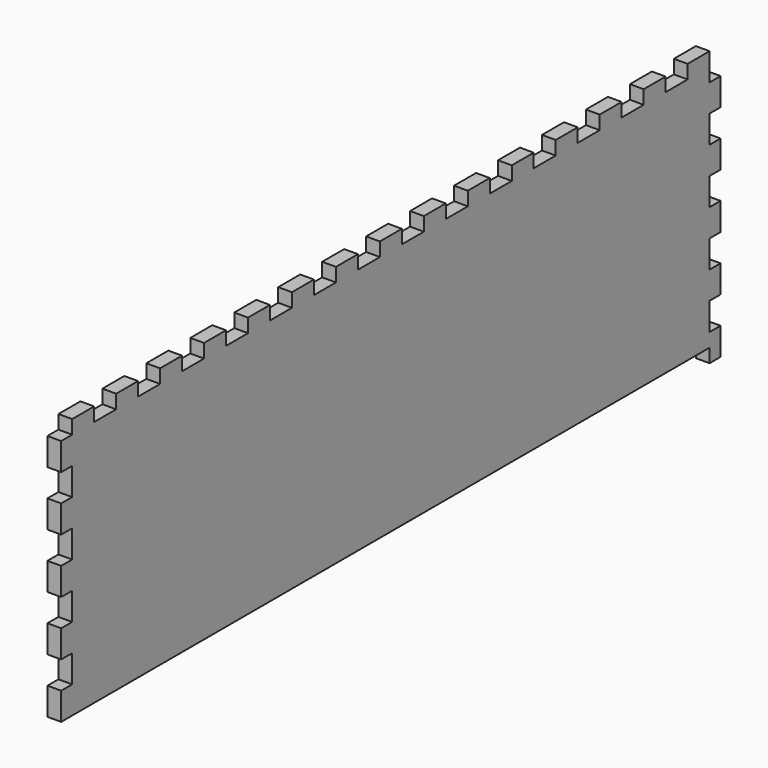
from build123d import *

# Parameters (mm, degrees)
SKETCH012_W             = 90
SKETCH012_H             = 290
PAD010_DEPTH            = 5
SKETCH042_W             = 10
SKETCH042_H             = 5
PAD031_DEPTH            = 5
LINEARPATTERN022_COUNT  = 15
LINEARPATTERN022_PITCH  = 20
SKETCH043_W             = 10
SKETCH043_H             = 5
PAD032_DEPTH            = 5
LINEARPATTERN023_COUNT  = 5
LINEARPATTERN023_PITCH  = 20
SKETCH044_W             = 10
SKETCH044_H             = 5
PAD033_DEPTH            = 5
LINEARPATTERN024_COUNT  = 5
LINEARPATTERN024_PITCH  = 20
BODY010_PLACEMENT_ANGLE = 90


with BuildPart() as part:
    # Sketch012 → Pad010 (new body)
    with BuildSketch(Plane.XY):
        Rectangle(SKETCH012_W, SKETCH012_H)
    extrude(amount=PAD010_DEPTH)

    # Sketch042 (on DatumPlane) → Pad031 (join)
    with BuildSketch(Plane.YZ.offset(45)):
        with Locations((-140, 2.5)):
            Rectangle(SKETCH042_W, SKETCH042_H)
    pad031 = extrude(amount=PAD031_DEPTH)

    # LinearPattern022: Pad031 ×15
    with Locations(*[(0, i * LINEARPATTERN022_PITCH, 0) for i in range(1, LINEARPATTERN022_COUNT)]):
        add(pad031)

    # Sketch043 (on DatumPlane) → Pad032 (join)
    with BuildSketch(Plane(origin=(0, 145, 0), x_dir=(-1, 0, 0), z_dir=(0, 1, 0))):
        with Locations((-35, 2.5)):
            Rectangle(SKETCH043_W, SKETCH043_H)
    pad032 = extrude(amount=PAD032_DEPTH)

    # LinearPattern023: Pad032 ×5
    with Locations(*[(-i * LINEARPATTERN023_PITCH, 0, 0) for i in range(1, LINEARPATTERN023_COUNT)]):
        add(pad032)

    # Sketch044 (on DatumPlane) → Pad033 (join)
    with BuildSketch(Plane.XZ.offset(145)):
        with Locations((-40, 2.5)):
            Rectangle(SKETCH044_W, SKETCH044_H)
    pad033 = extrude(amount=PAD033_DEPTH)

    # LinearPattern024: Pad033 ×5
    with Locations(*[(i * LINEARPATTERN024_PITCH, 0, 0) for i in range(1, LINEARPATTERN024_COUNT)]):
        add(pad033)


with BuildPart() as part_1:
    # Body010 placement: moved
    add(part.part.moved(Location((0, 0, 155))).rotate(Axis((0, 0, 155), (0, -1, 0)), BODY010_PLACEMENT_ANGLE))


solid = part_1.part
